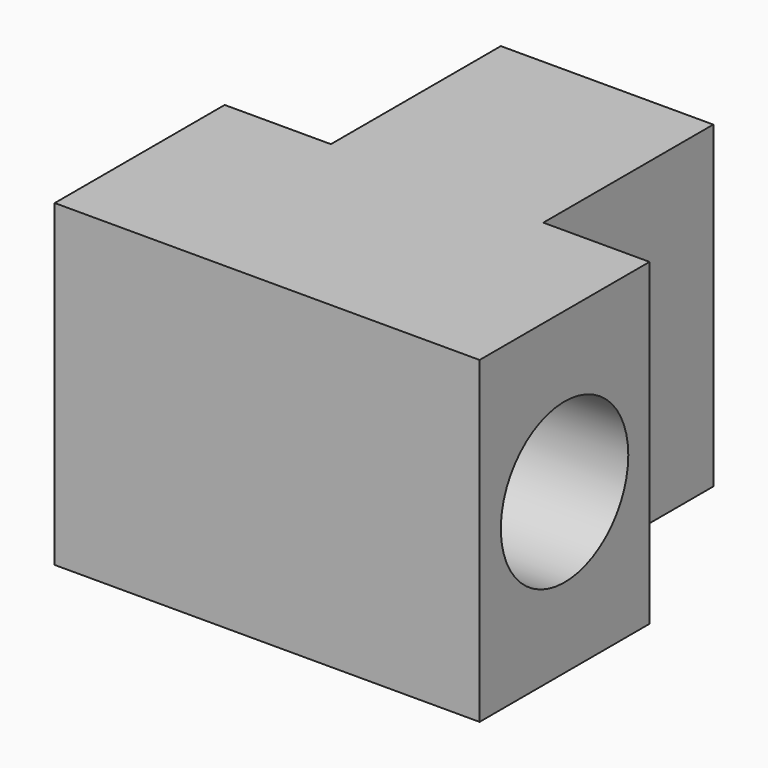
from build123d import *

# Parameters (mm, degrees)
F1_DEPTH = 38.1
F2_R     = 19.05
F3_DEPTH = 101.601


with BuildPart() as f1:
    # F0 (on Top) → F1 (new body, symmetric)
    with BuildSketch(Plane.XY):
        Polygon((-50.8, 25.4), (-50.8, -25.4), (50.8, -25.4), (50.8, 25.4), (25.4, 25.4), (0, 25.4), (-25.4, 25.4), align=None)
        Polygon((-25.4, 76.2), (-25.4, 25.4), (0, 25.4), (25.4, 25.4), (25.4, 76.2), align=None)
    extrude(amount=F1_DEPTH, both=True)

    # F2 (on face) → F3 (cut, through all)
    with BuildSketch(Plane.YZ.offset(50.8)):
        Circle(F2_R)
    extrude(amount=-F3_DEPTH, mode=Mode.SUBTRACT)


solid = f1.part
